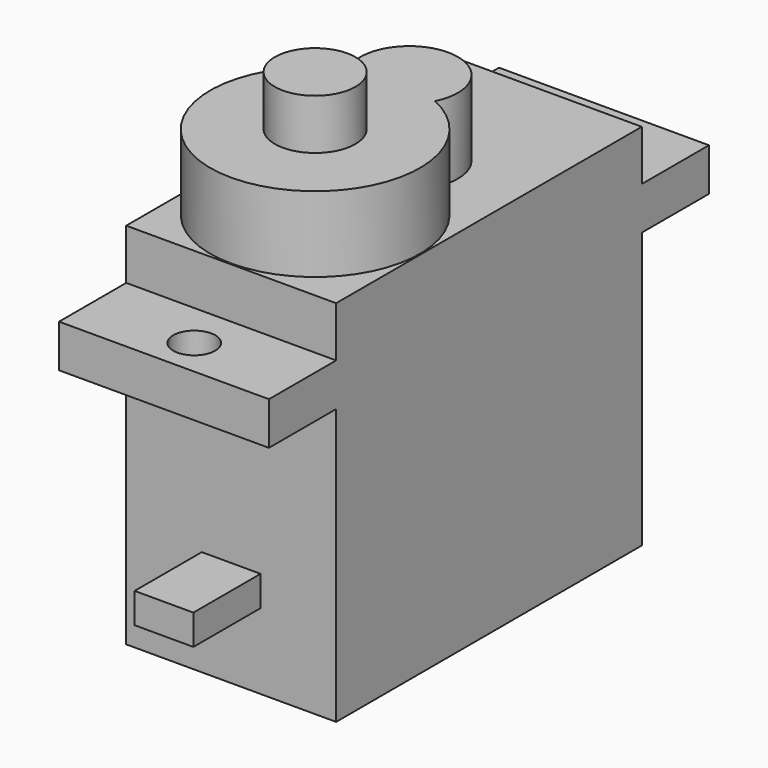
from build123d import *

# Parameters (mm, degrees)
BOX_W             = 3.5
BOX_H             = 5
BOX_DEPTH         = 1.8
CYLINDER003_R     = 1.25
CYLINDER003_DEPTH = 5
CYLINDER004_R     = 1.25
CYLINDER004_DEPTH = 5
CYLINDER_R        = 6.25
CYLINDER_DEPTH    = 4.5
CYLINDER001_R     = 2.9
CYLINDER001_DEPTH = 4.5
CYLINDER002_R     = 2.4
CYLINDER002_DEPTH = 3
PAD_DEPTH         = 12.5


with BuildPart() as cube:
    # Box → Box (new body)
    with BuildSketch(Plane(origin=(4.5, -5, 4.5), x_dir=(1, 0, 0), z_dir=(0, 0, 1))):
        with Locations((1.75, 2.5)):
            Rectangle(BOX_W, BOX_H)
    extrude(amount=BOX_DEPTH)


with BuildPart() as cylinder003:
    # Cylinder003 → Cylinder003 (new body)
    with BuildSketch(Plane(origin=(6.25, -2.75, 15), x_dir=(1, 0, 0), z_dir=(0, 0, 1))):
        Circle(CYLINDER003_R)
    extrude(amount=CYLINDER003_DEPTH)


with BuildPart() as fusion001:
    # Cylinder004 → Cylinder004 (new body)
    with BuildSketch(Plane(origin=(6.25, 25.5, 15), x_dir=(1, 0, 0), z_dir=(0, 0, 1))):
        Circle(CYLINDER004_R)
    extrude(amount=CYLINDER004_DEPTH)

    # Fusion001: union Cylinder003
    add(cylinder003.part)


with BuildPart() as cylinder:
    # Cylinder → Cylinder (new body)
    with BuildSketch(Plane(origin=(6.25, 6.25, 22), x_dir=(1, 0, 0), z_dir=(0, 0, 1))):
        Circle(CYLINDER_R)
    extrude(amount=CYLINDER_DEPTH)


with BuildPart() as cylinder001:
    # Cylinder001 → Cylinder001 (new body)
    with BuildSketch(Plane(origin=(6.25, 13.25, 22), x_dir=(1, 0, 0), z_dir=(0, 0, 1))):
        Circle(CYLINDER001_R)
    extrude(amount=CYLINDER001_DEPTH)


with BuildPart() as cylinder002:
    # Cylinder002 → Cylinder002 (new body)
    with BuildSketch(Plane(origin=(6.25, 6.25, 26.5), x_dir=(1, 0, 0), z_dir=(0, 0, 1))):
        Circle(CYLINDER002_R)
    extrude(amount=CYLINDER002_DEPTH)


with BuildPart() as obj1:
    # Sketch → Pad (new body)
    with BuildSketch(Plane.YZ):
        Polygon((0, 0), (0, 16.4), (-5, 16.4), (-5, 18.95), (0, 18.95), (0, 21.95), (22.75, 21.95), (22.75, 18.95), (27.75, 18.95), (27.75, 16.4), (22.75, 16.4), (22.75, 0), align=None)
    extrude(amount=PAD_DEPTH)

    # Fusion: union Cylinder, Cylinder001, Cylinder002
    add(cylinder.part)
    add(cylinder001.part)
    add(cylinder002.part)

    # Cut: cut Fusion001
    add(fusion001.part, mode=Mode.SUBTRACT)

    # Fusion002: union Cube
    add(cube.part)


solid = obj1.part
